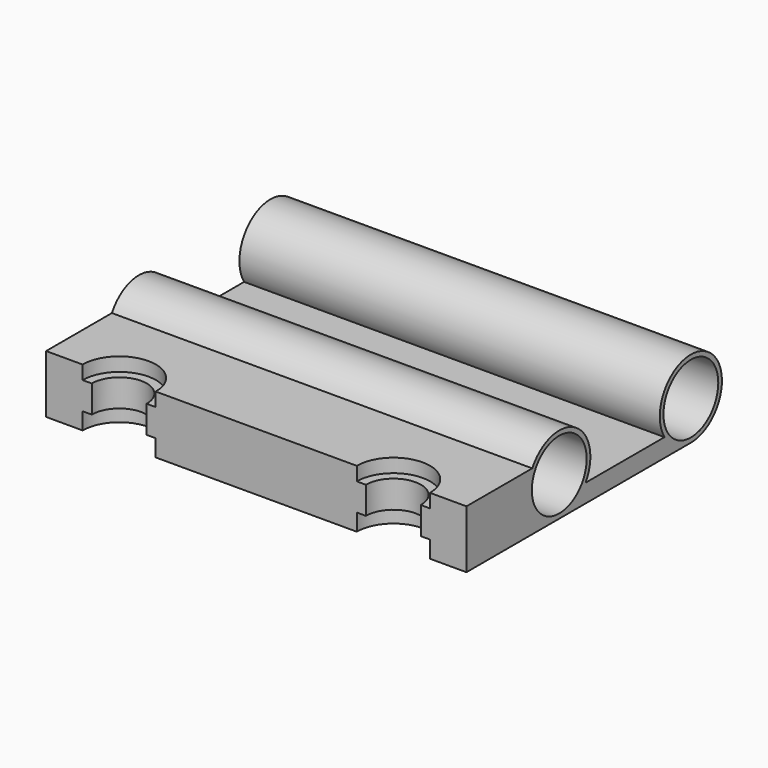
from build123d import *

# Parameters (mm, degrees)
SKETCH_R        = 7.5
PAD_DEPTH       = 92
POCKET_DEPTH    = 3
POCKET001_DEPTH = 9.701
POCKET002_DEPTH = 3.7


with BuildPart() as part:
    # Sketch → Pad (new body)
    with BuildSketch(Plane.YZ):
        with BuildLine():
            Line((-25.389858, -4.25), (17.999978, -4.25))
            ThreePointArc((17.999978, -4.25), (22.123115, 11.683029), (10.788897, -0.25))
            Line((-10.788897, -0.25), (10.788897, -0.25))
            ThreePointArc((-10.788897, -0.25), (-13.649082, 11.552021), (-25.389858, 8.45))
            Line((-43.389858, 8.45), (-25.389858, 8.45))
            Line((-43.389858, -4.25), (-43.389858, 8.45))
            Line((-25.389858, -4.25), (-43.389858, -4.25))
        make_face()
        with Locations((-18, 4.25)):
            Circle(SKETCH_R, mode=Mode.SUBTRACT)
        with Locations((18, 4.25)):
            Circle(SKETCH_R, mode=Mode.SUBTRACT)
    extrude(amount=PAD_DEPTH)

    # Sketch001 → Pocket (cut)
    with BuildSketch(Plane(origin=(0, 0, 8.45), x_dir=(0, -1, 0), z_dir=(0, 0, 1))):
        with BuildLine():
            ThreePointArc((43.35, 24), (35.35, 16), (43.35, 8))
            Line((50.35, 8), (43.35, 8))
            Line((50.35, 24), (50.35, 8))
            Line((43.35, 24), (50.35, 24))
        make_face()
        with BuildLine():
            ThreePointArc((43.349998, 84), (35.35, 76), (43.349998, 68))
            Line((59.835098, 68), (43.349998, 68))
            Line((59.835098, 84), (59.835098, 68))
            Line((43.349998, 84), (59.835098, 84))
        make_face()
    extrude(amount=-POCKET_DEPTH, mode=Mode.SUBTRACT)

    # Sketch002 → Pocket001 (cut, through all)
    with BuildSketch(Plane(origin=(0, 0, 5.45), x_dir=(0, -1, 0), z_dir=(0, 0, 1))):
        with BuildLine():
            ThreePointArc((43.35, 22), (37.35, 16), (43.35, 10))
            Line((53.35, 10), (43.35, 10))
            Line((53.35, 22), (53.35, 10))
            Line((43.35, 22), (53.35, 22))
        make_face()
        with BuildLine():
            ThreePointArc((43.35, 82), (37.35, 76.000014), (43.349973, 70))
            Line((53.35, 70), (43.349973, 70))
            Line((53.35, 82), (53.35, 70))
            Line((43.35, 82), (53.35, 82))
        make_face()
    extrude(amount=-POCKET001_DEPTH, mode=Mode.SUBTRACT)

    # Sketch003 → Pocket002 (cut)
    with BuildSketch(Plane.YX.offset(4.25)):
        with BuildLine():
            ThreePointArc((-43.349996, 68), (-35.35, 76.000002), (-43.35, 84))
            Line((-43.35, 84), (-53.35, 84))
            Line((-53.35, 84), (-53.35, 68))
            Line((-53.35, 68), (-43.349996, 68))
        make_face()
        with BuildLine():
            ThreePointArc((-43.35, 8), (-35.35, 16), (-43.35, 24))
            Line((-43.35, 24), (-53.350004, 24))
            Line((-53.350004, 24), (-53.350004, 8))
            Line((-53.350004, 8), (-43.35, 8))
        make_face()
    extrude(amount=-POCKET002_DEPTH, mode=Mode.SUBTRACT)


solid = part.part
